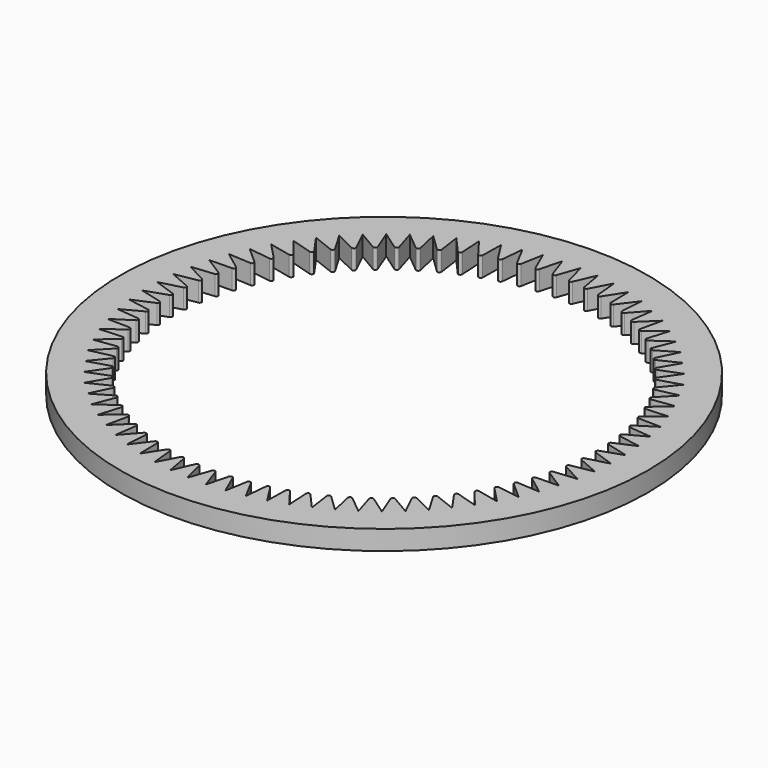
from build123d import *

# Parameters (mm, degrees)
F0_R     = 67.5
F1_DEPTH = 5


with BuildPart() as f1:
    # F0 (on Top) → F1 (new body)
    with BuildSketch(Plane.XY):
        Circle(F0_R)
        with BuildLine():
            ThreePointArc((-2.3561778909, 59.9537190318), (-2.3555889455, 59.9537421744), (-2.355, 59.9537653113))
            ThreePointArc((-2.355, 59.9537653113), (0, 60), (2.355, 59.9537653113))
            ThreePointArc((2.355, 59.9537653113), (2.3555889455, 59.9537421744), (2.3561778909, 59.9537190318))
            ThreePointArc((2.3561778909, 59.9537190318), (4.7075457437, 59.815040024), (7.0516585327, 59.5841766909))
            ThreePointArc((7.0516585327, 59.5841766909), (7.0522438475, 59.5841074173), (7.0528291615, 59.5840381379))
            ThreePointArc((7.0528291615, 59.5840381379), (9.3860679024, 59.2613004357), (11.7048412457, 58.8472318076))
            ThreePointArc((11.7048412457, 58.8472318076), (11.705419321, 58.8471168242), (11.7059973951, 58.8470018352))
            ThreePointArc((11.7059973951, 58.8470018352), (14.0067218314, 58.3421952239), (16.2858597202, 57.7474741714))
            ThreePointArc((16.2858597202, 57.7474741714), (16.2864269919, 57.7473141872), (16.2869942621, 57.7471541975))
            ThreePointArc((16.2869942621, 57.7471541975), (18.5410196625, 57.0633909777), (20.7664704538, 56.291684154))
            ThreePointArc((20.7664704538, 56.291684154), (20.7670234246, 56.2914801553), (20.7675763935, 56.2912761513))
            ThreePointArc((20.7675763935, 56.2912761513), (22.9610059419, 55.4327719507), (25.1190489916, 54.4888371849))
            ThreePointArc((25.1190489916, 54.4888371849), (25.1195842522, 54.4885904295), (25.1201195105, 54.4883436689))
            ThreePointArc((25.1201195105, 54.4883436689), (27.2394299844, 53.4603914513), (29.3167602394, 52.3500484151))
            ThreePointArc((29.3167602394, 52.3500484151), (29.3172744898, 52.3497604244), (29.3177887374, 52.3494724286))
            ThreePointArc((29.3177887374, 52.3494724286), (31.349913883, 51.1584098612), (33.3337239115, 49.8885041888))
            ThreePointArc((33.3337239115, 49.8885041888), (33.3342139812, 49.8881767382), (33.3347040476, 49.8878492827))
            ThreePointArc((33.3347040476, 49.8878492827), (35.2671151375, 48.5410196625), (37.1451740911, 47.1193807444))
            ThreePointArc((37.1451740911, 47.1193807444), (37.1456369586, 47.1190158528), (37.1460998225, 47.1186509567))
            ThreePointArc((37.1460998225, 47.1186509567), (38.9668828998, 45.624357936), (40.7276119204, 44.0597506491))
            ThreePointArc((40.7276119204, 44.0597506491), (40.728044732, 44.0593505661), (40.7284775396, 44.058950479))
            ThreePointArc((40.7284775396, 44.058950479), (42.4264068712, 42.4264068712), (44.058950479, 40.7284775396))
            ThreePointArc((44.058950479, 40.7284775396), (44.0593505661, 40.728044732), (44.0597506491, 40.7276119204))
            ThreePointArc((44.0597506491, 40.7276119204), (45.624357936, 38.9668828998), (47.1186509567, 37.1460998225))
            ThreePointArc((47.1186509567, 37.1460998225), (47.1190158528, 37.1456369586), (47.1193807444, 37.1451740911))
            ThreePointArc((47.1193807444, 37.1451740911), (48.5410196625, 35.2671151375), (49.8878492827, 33.3347040476))
            ThreePointArc((49.8878492827, 33.3347040476), (49.8881767382, 33.3342139812), (49.8885041888, 33.3337239115))
            ThreePointArc((49.8885041888, 33.3337239115), (51.1584098612, 31.349913883), (52.3494724286, 29.3177887374))
            ThreePointArc((52.3494724286, 29.3177887374), (52.3497604244, 29.3172744898), (52.3500484151, 29.3167602394))
            ThreePointArc((52.3500484151, 29.3167602394), (53.4603914513, 27.2394299844), (54.4883436689, 25.1201195105))
            ThreePointArc((54.4883436689, 25.1201195105), (54.4885904295, 25.1195842522), (54.4888371849, 25.1190489916))
            ThreePointArc((54.4888371849, 25.1190489916), (55.4327719507, 22.9610059419), (56.2912761513, 20.7675763935))
            ThreePointArc((56.2912761513, 20.7675763935), (56.2914801553, 20.7670234246), (56.291684154, 20.7664704538))
            ThreePointArc((56.291684154, 20.7664704538), (57.0633909777, 18.5410196625), (57.7471541975, 16.2869942621))
            ThreePointArc((57.7471541975, 16.2869942621), (57.7473141872, 16.2864269919), (57.7474741714, 16.2858597202))
            ThreePointArc((57.7474741714, 16.2858597202), (58.3421952239, 14.0067218314), (58.8470018352, 11.7059973951))
            ThreePointArc((58.8470018352, 11.7059973951), (58.8471168242, 11.705419321), (58.8472318076, 11.7048412457))
            ThreePointArc((58.8472318076, 11.7048412457), (59.2613004357, 9.3860679024), (59.5840381379, 7.0528291615))
            ThreePointArc((59.5840381379, 7.0528291615), (59.5841074173, 7.0522438475), (59.5841766909, 7.0516585327))
            ThreePointArc((59.5841766909, 7.0516585327), (59.815040024, 4.7075457437), (59.9537190318, 2.3561778909))
            ThreePointArc((59.9537190318, 2.3561778909), (59.9537421744, 2.3555889455), (59.9537653113, 2.355))
            ThreePointArc((59.9537653113, 2.355), (59.9884402142, 1.1777269045), (60, 0))
            ThreePointArc((60, 0), (59.9884402142, -1.1777269045), (59.9537653113, -2.355))
            ThreePointArc((59.9537653113, -2.355), (59.9537421744, -2.3555889455), (59.9537190318, -2.3561778909))
            ThreePointArc((59.9537190318, -2.3561778909), (59.815040024, -4.7075457437), (59.5841766909, -7.0516585327))
            ThreePointArc((59.5841766909, -7.0516585327), (59.5841074173, -7.0522438475), (59.5840381379, -7.0528291615))
            ThreePointArc((59.5840381379, -7.0528291615), (59.2613004357, -9.3860679024), (58.8472318076, -11.7048412457))
            ThreePointArc((58.8472318076, -11.7048412457), (58.8471168242, -11.705419321), (58.8470018352, -11.7059973951))
            ThreePointArc((58.8470018352, -11.7059973951), (58.3421952239, -14.0067218314), (57.7474741714, -16.2858597202))
            ThreePointArc((57.7474741714, -16.2858597202), (57.7473141872, -16.2864269919), (57.7471541975, -16.2869942621))
            ThreePointArc((57.7471541975, -16.2869942621), (57.0633909777, -18.5410196625), (56.291684154, -20.7664704538))
            ThreePointArc((56.291684154, -20.7664704538), (56.2914801553, -20.7670234246), (56.2912761513, -20.7675763935))
            ThreePointArc((56.2912761513, -20.7675763935), (55.4327719507, -22.9610059419), (54.4888371849, -25.1190489916))
            ThreePointArc((54.4888371849, -25.1190489916), (54.4885904295, -25.1195842522), (54.4883436689, -25.1201195105))
            ThreePointArc((54.4883436689, -25.1201195105), (53.4603914513, -27.2394299844), (52.3500484151, -29.3167602394))
            ThreePointArc((52.3500484151, -29.3167602394), (52.3497604244, -29.3172744898), (52.3494724286, -29.3177887374))
            ThreePointArc((52.3494724286, -29.3177887374), (51.1584098612, -31.349913883), (49.8885041888, -33.3337239115))
            ThreePointArc((49.8885041888, -33.3337239115), (49.8881767382, -33.3342139812), (49.8878492827, -33.3347040476))
            ThreePointArc((49.8878492827, -33.3347040476), (48.5410196625, -35.2671151375), (47.1193807444, -37.1451740911))
            ThreePointArc((47.1193807444, -37.1451740911), (47.1190158528, -37.1456369586), (47.1186509567, -37.1460998225))
            ThreePointArc((47.1186509567, -37.1460998225), (45.624357936, -38.9668828998), (44.0597506491, -40.7276119204))
            ThreePointArc((44.0597506491, -40.7276119204), (44.0593505661, -40.728044732), (44.058950479, -40.7284775396))
            ThreePointArc((44.058950479, -40.7284775396), (42.4264068712, -42.4264068712), (40.7284775396, -44.058950479))
            ThreePointArc((40.7284775396, -44.058950479), (40.728044732, -44.0593505661), (40.7276119204, -44.0597506491))
            ThreePointArc((40.7276119204, -44.0597506491), (38.9668828998, -45.624357936), (37.1460998225, -47.1186509567))
            ThreePointArc((37.1460998225, -47.1186509567), (37.1456369586, -47.1190158528), (37.1451740911, -47.1193807444))
            ThreePointArc((37.1451740911, -47.1193807444), (35.2671151375, -48.5410196625), (33.3347040476, -49.8878492827))
            ThreePointArc((33.3347040476, -49.8878492827), (33.3342139812, -49.8881767382), (33.3337239115, -49.8885041888))
            ThreePointArc((33.3337239115, -49.8885041888), (31.349913883, -51.1584098612), (29.3177887374, -52.3494724286))
            ThreePointArc((29.3177887374, -52.3494724286), (29.3172744898, -52.3497604244), (29.3167602394, -52.3500484151))
            ThreePointArc((29.3167602394, -52.3500484151), (27.2394299844, -53.4603914513), (25.1201195105, -54.4883436689))
            ThreePointArc((25.1201195105, -54.4883436689), (25.1195842522, -54.4885904295), (25.1190489916, -54.4888371849))
            ThreePointArc((25.1190489916, -54.4888371849), (22.9610059419, -55.4327719507), (20.7675763935, -56.2912761513))
            ThreePointArc((20.7675763935, -56.2912761513), (20.7670234246, -56.2914801553), (20.7664704538, -56.291684154))
            ThreePointArc((20.7664704538, -56.291684154), (18.5410196625, -57.0633909777), (16.2869942621, -57.7471541975))
            ThreePointArc((16.2869942621, -57.7471541975), (16.2864269919, -57.7473141872), (16.2858597202, -57.7474741714))
            ThreePointArc((16.2858597202, -57.7474741714), (14.0067218314, -58.3421952239), (11.7059973951, -58.8470018352))
            ThreePointArc((11.7059973951, -58.8470018352), (11.705419321, -58.8471168242), (11.7048412457, -58.8472318076))
            ThreePointArc((11.7048412457, -58.8472318076), (9.3860679024, -59.2613004357), (7.0528291615, -59.5840381379))
            ThreePointArc((7.0528291615, -59.5840381379), (7.0522438475, -59.5841074173), (7.0516585327, -59.5841766909))
            ThreePointArc((7.0516585327, -59.5841766909), (4.7075457437, -59.815040024), (2.3561778909, -59.9537190318))
            ThreePointArc((2.3561778909, -59.9537190318), (2.3555889455, -59.9537421744), (2.355, -59.9537653113))
            ThreePointArc((2.355, -59.9537653113), (0, -60), (-2.355, -59.9537653113))
            ThreePointArc((-2.355, -59.9537653113), (-2.3555889455, -59.9537421744), (-2.3561778909, -59.9537190318))
            ThreePointArc((-2.3561778909, -59.9537190318), (-4.7075457437, -59.815040024), (-7.0516585327, -59.5841766909))
            ThreePointArc((-7.0516585327, -59.5841766909), (-7.0522438475, -59.5841074173), (-7.0528291615, -59.5840381379))
            ThreePointArc((-7.0528291615, -59.5840381379), (-9.3860679024, -59.2613004357), (-11.7048412457, -58.8472318076))
            ThreePointArc((-11.7048412457, -58.8472318076), (-11.705419321, -58.8471168242), (-11.7059973951, -58.8470018352))
            ThreePointArc((-11.7059973951, -58.8470018352), (-14.0067218314, -58.3421952239), (-16.2858597202, -57.7474741714))
            ThreePointArc((-16.2858597202, -57.7474741714), (-16.2864269919, -57.7473141872), (-16.2869942621, -57.7471541975))
            ThreePointArc((-16.2869942621, -57.7471541975), (-18.5410196625, -57.0633909777), (-20.7664704538, -56.291684154))
            ThreePointArc((-20.7664704538, -56.291684154), (-20.7670234246, -56.2914801553), (-20.7675763935, -56.2912761513))
            ThreePointArc((-20.7675763935, -56.2912761513), (-22.9610059419, -55.4327719507), (-25.1190489916, -54.4888371849))
            ThreePointArc((-25.1190489916, -54.4888371849), (-25.1195842522, -54.4885904295), (-25.1201195105, -54.4883436689))
            ThreePointArc((-25.1201195105, -54.4883436689), (-27.2394299844, -53.4603914513), (-29.3167602394, -52.3500484151))
            ThreePointArc((-29.3167602394, -52.3500484151), (-29.3172744898, -52.3497604244), (-29.3177887374, -52.3494724286))
            ThreePointArc((-29.3177887374, -52.3494724286), (-31.349913883, -51.1584098612), (-33.3337239115, -49.8885041888))
            ThreePointArc((-33.3337239115, -49.8885041888), (-33.3342139812, -49.8881767382), (-33.3347040476, -49.8878492827))
            ThreePointArc((-33.3347040476, -49.8878492827), (-35.2671151375, -48.5410196625), (-37.1451740911, -47.1193807444))
            ThreePointArc((-37.1451740911, -47.1193807444), (-37.1456369586, -47.1190158528), (-37.1460998225, -47.1186509567))
            ThreePointArc((-37.1460998225, -47.1186509567), (-38.9668828998, -45.624357936), (-40.7276119204, -44.0597506491))
            ThreePointArc((-40.7276119204, -44.0597506491), (-40.728044732, -44.0593505661), (-40.7284775396, -44.058950479))
            ThreePointArc((-40.7284775396, -44.058950479), (-42.4264068712, -42.4264068712), (-44.058950479, -40.7284775396))
            ThreePointArc((-44.058950479, -40.7284775396), (-44.0593505661, -40.728044732), (-44.0597506491, -40.7276119204))
            ThreePointArc((-44.0597506491, -40.7276119204), (-45.624357936, -38.9668828998), (-47.1186509567, -37.1460998225))
            ThreePointArc((-47.1186509567, -37.1460998225), (-47.1190158528, -37.1456369586), (-47.1193807444, -37.1451740911))
            ThreePointArc((-47.1193807444, -37.1451740911), (-48.5410196625, -35.2671151375), (-49.8878492827, -33.3347040476))
            ThreePointArc((-49.8878492827, -33.3347040476), (-49.8881767382, -33.3342139812), (-49.8885041888, -33.3337239115))
            ThreePointArc((-49.8885041888, -33.3337239115), (-51.1584098612, -31.349913883), (-52.3494724286, -29.3177887374))
            ThreePointArc((-52.3494724286, -29.3177887374), (-52.3497604244, -29.3172744898), (-52.3500484151, -29.3167602394))
            ThreePointArc((-52.3500484151, -29.3167602394), (-53.4603914513, -27.2394299844), (-54.4883436689, -25.1201195105))
            ThreePointArc((-54.4883436689, -25.1201195105), (-54.4885904295, -25.1195842522), (-54.4888371849, -25.1190489916))
            ThreePointArc((-54.4888371849, -25.1190489916), (-55.4327719507, -22.9610059419), (-56.2912761513, -20.7675763935))
            ThreePointArc((-56.2912761513, -20.7675763935), (-56.2914801553, -20.7670234246), (-56.291684154, -20.7664704538))
            ThreePointArc((-56.291684154, -20.7664704538), (-57.0633909777, -18.5410196625), (-57.7471541975, -16.2869942621))
            ThreePointArc((-57.7471541975, -16.2869942621), (-57.7473141872, -16.2864269919), (-57.7474741714, -16.2858597202))
            ThreePointArc((-57.7474741714, -16.2858597202), (-58.3421952239, -14.0067218314), (-58.8470018352, -11.7059973951))
            ThreePointArc((-58.8470018352, -11.7059973951), (-58.8471168242, -11.705419321), (-58.8472318076, -11.7048412457))
            ThreePointArc((-58.8472318076, -11.7048412457), (-59.2613004357, -9.3860679024), (-59.5840381379, -7.0528291615))
            ThreePointArc((-59.5840381379, -7.0528291615), (-59.5841074173, -7.0522438475), (-59.5841766909, -7.0516585327))
            ThreePointArc((-59.5841766909, -7.0516585327), (-59.815040024, -4.7075457437), (-59.9537190318, -2.3561778909))
            ThreePointArc((-59.9537190318, -2.3561778909), (-59.9537421744, -2.3555889455), (-59.9537653113, -2.355))
            ThreePointArc((-59.9537653113, -2.355), (-60, 0), (-59.9537653113, 2.355))
            ThreePointArc((-59.9537653113, 2.355), (-59.9537421744, 2.3555889455), (-59.9537190318, 2.3561778909))
            ThreePointArc((-59.9537190318, 2.3561778909), (-59.815040024, 4.7075457437), (-59.5841766909, 7.0516585327))
            ThreePointArc((-59.5841766909, 7.0516585327), (-59.5841074173, 7.0522438475), (-59.5840381379, 7.0528291615))
            ThreePointArc((-59.5840381379, 7.0528291615), (-59.2613004357, 9.3860679024), (-58.8472318076, 11.7048412457))
            ThreePointArc((-58.8472318076, 11.7048412457), (-58.8471168242, 11.705419321), (-58.8470018352, 11.7059973951))
            ThreePointArc((-58.8470018352, 11.7059973951), (-58.3421952239, 14.0067218314), (-57.7474741714, 16.2858597202))
            ThreePointArc((-57.7474741714, 16.2858597202), (-57.7473141872, 16.2864269919), (-57.7471541975, 16.2869942621))
            ThreePointArc((-57.7471541975, 16.2869942621), (-57.0633909777, 18.5410196625), (-56.291684154, 20.7664704538))
            ThreePointArc((-56.291684154, 20.7664704538), (-56.2914801553, 20.7670234246), (-56.2912761513, 20.7675763935))
            ThreePointArc((-56.2912761513, 20.7675763935), (-55.4327719507, 22.9610059419), (-54.4888371849, 25.1190489916))
            ThreePointArc((-54.4888371849, 25.1190489916), (-54.4885904295, 25.1195842522), (-54.4883436689, 25.1201195105))
            ThreePointArc((-54.4883436689, 25.1201195105), (-53.4603914513, 27.2394299844), (-52.3500484151, 29.3167602394))
            ThreePointArc((-52.3500484151, 29.3167602394), (-52.3497604244, 29.3172744898), (-52.3494724286, 29.3177887374))
            ThreePointArc((-52.3494724286, 29.3177887374), (-51.1584098612, 31.349913883), (-49.8885041888, 33.3337239115))
            ThreePointArc((-49.8885041888, 33.3337239115), (-49.8881767382, 33.3342139812), (-49.8878492827, 33.3347040476))
            ThreePointArc((-49.8878492827, 33.3347040476), (-48.5410196625, 35.2671151375), (-47.1193807444, 37.1451740911))
            ThreePointArc((-47.1193807444, 37.1451740911), (-47.1190158528, 37.1456369586), (-47.1186509567, 37.1460998225))
            ThreePointArc((-47.1186509567, 37.1460998225), (-45.624357936, 38.9668828998), (-44.0597506491, 40.7276119204))
            ThreePointArc((-44.0597506491, 40.7276119204), (-44.0593505661, 40.728044732), (-44.058950479, 40.7284775396))
            ThreePointArc((-44.058950479, 40.7284775396), (-42.4264068712, 42.4264068712), (-40.7284775396, 44.058950479))
            ThreePointArc((-40.7284775396, 44.058950479), (-40.728044732, 44.0593505661), (-40.7276119204, 44.0597506491))
            ThreePointArc((-40.7276119204, 44.0597506491), (-38.9668828998, 45.624357936), (-37.1460998225, 47.1186509567))
            ThreePointArc((-37.1460998225, 47.1186509567), (-37.1456369586, 47.1190158528), (-37.1451740911, 47.1193807444))
            ThreePointArc((-37.1451740911, 47.1193807444), (-35.2671151375, 48.5410196625), (-33.3347040476, 49.8878492827))
            ThreePointArc((-33.3347040476, 49.8878492827), (-33.3342139812, 49.8881767382), (-33.3337239115, 49.8885041888))
            ThreePointArc((-33.3337239115, 49.8885041888), (-31.349913883, 51.1584098612), (-29.3177887374, 52.3494724286))
            ThreePointArc((-29.3177887374, 52.3494724286), (-29.3172744898, 52.3497604244), (-29.3167602394, 52.3500484151))
            ThreePointArc((-29.3167602394, 52.3500484151), (-27.2394299844, 53.4603914513), (-25.1201195105, 54.4883436689))
            ThreePointArc((-25.1201195105, 54.4883436689), (-25.1195842522, 54.4885904295), (-25.1190489916, 54.4888371849))
            ThreePointArc((-25.1190489916, 54.4888371849), (-22.9610059419, 55.4327719507), (-20.7675763935, 56.2912761513))
            ThreePointArc((-20.7675763935, 56.2912761513), (-20.7670234246, 56.2914801553), (-20.7664704538, 56.291684154))
            ThreePointArc((-20.7664704538, 56.291684154), (-18.5410196625, 57.0633909777), (-16.2869942621, 57.7471541975))
            ThreePointArc((-16.2869942621, 57.7471541975), (-16.2864269919, 57.7473141872), (-16.2858597202, 57.7474741714))
            ThreePointArc((-16.2858597202, 57.7474741714), (-14.0067218314, 58.3421952239), (-11.7059973951, 58.8470018352))
            ThreePointArc((-11.7059973951, 58.8470018352), (-11.705419321, 58.8471168242), (-11.7048412457, 58.8472318076))
            ThreePointArc((-11.7048412457, 58.8472318076), (-9.3860679024, 59.2613004357), (-7.0528291615, 59.5840381379))
            ThreePointArc((-7.0528291615, 59.5840381379), (-7.0522438475, 59.5841074173), (-7.0516585327, 59.5841766909))
            ThreePointArc((-7.0516585327, 59.5841766909), (-4.7075457437, 59.815040024), (-2.3561778909, 59.9537190318))
        make_face(mode=Mode.SUBTRACT)
        with BuildLine():
            ThreePointArc((2.355, 59.9537653113), (0, 60), (-2.355, 59.9537653113))
            Line((-2.355, 59.9537653113), (-0.4725760277, 54.5067051611))
            ThreePointArc((-0.4725760277, 54.5067051611), (0, 54.1700204943), (0.4725760277, 54.5067051611))
            Line((0.4725760277, 54.5067051611), (2.355, 59.9537653113))
        make_face()
        with BuildLine():
            ThreePointArc((7.0516585327, 59.5841766909), (4.7075457437, 59.815040024), (2.3561778909, 59.9537190318))
            Line((2.3561778909, 59.9537190318), (3.8054275645, 54.3757570676))
            ThreePointArc((3.8054275645, 54.3757570676), (4.2501308235, 54.0030323994), (4.7476660316, 54.301601292))
            Line((4.7476660316, 54.301601292), (7.0516585327, 59.5841766909))
        make_face()
        with BuildLine():
            ThreePointArc((11.7048412457, 58.8472318076), (9.3860679024, 59.2613004357), (7.0528291615, 59.5840381379))
            Line((7.0528291615, 59.5840381379), (8.0599694304, 53.90956435))
            ThreePointArc((8.0599694304, 53.90956435), (8.4740581772, 53.503097652), (8.9934850956, 53.7617099938))
            Line((8.9934850956, 53.7617099938), (11.7048412457, 58.8472318076))
        make_face()
        with BuildLine():
            ThreePointArc((16.2858597202, 57.7474741714), (14.0067218314, 58.3421952239), (11.7059973951, 58.8470018352))
            Line((11.7059973951, 58.8470018352), (12.2648189045, 53.1110012414))
            ThreePointArc((12.2648189045, 53.1110012414), (12.6457401444, 52.673298516), (13.1838563334, 52.8903598759))
            Line((13.1838563334, 52.8903598759), (16.2858597202, 57.7474741714))
        make_face()
        with BuildLine():
            ThreePointArc((20.7664704538, 56.291684154), (18.5410196625, 57.0633909777), (16.2869942621, 57.7471541975))
            Line((16.2869942621, 57.7471541975), (16.3940516916, 51.984991149))
            ThreePointArc((16.3940516916, 51.984991149), (16.7394569184, 51.5187509789), (17.2929447128, 51.6929231016))
            Line((17.2929447128, 51.6929231016), (20.7664704538, 56.291684154))
        make_face()
        with BuildLine():
            ThreePointArc((25.1190489916, 54.4888371849), (22.9610059419, 55.4327719507), (20.7675763935, 56.2912761513))
            Line((20.7675763935, 56.2912761513), (20.4222096984, 50.5384762993))
            ThreePointArc((20.4222096984, 50.5384762993), (20.729969374, 50.0465732104), (21.2954163375, 50.1767822667))
            Line((21.2954163375, 50.1767822667), (25.1190489916, 54.4888371849))
        make_face()
        with BuildLine():
            ThreePointArc((29.3167602394, 52.3500484151), (27.2394299844, 53.4603914513), (25.1201195105, 54.4883436689))
            Line((25.1201195105, 54.4883436689), (24.3244579914, 48.7803749375))
            ThreePointArc((24.3244579914, 48.7803749375), (24.5926746751, 48.2658416758), (25.1665946391, 48.3512848836))
            Line((25.1665946391, 48.3512848836), (29.3167602394, 52.3500484151))
        make_face()
        with BuildLine():
            ThreePointArc((33.3337239115, 49.8885041888), (31.349913883, 51.1584098612), (29.3177887374, 52.3494724286))
            Line((29.3177887374, 52.3494724286), (28.0767379122, 46.7215263432))
            ThreePointArc((28.0767379122, 46.7215263432), (28.3037579589, 46.1875351773), (28.882612516, 46.2276857508))
            Line((28.882612516, 46.2276857508), (33.3337239115, 49.8885041888))
        make_face()
        with BuildLine():
            ThreePointArc((37.1451740911, 47.1193807444), (35.2671151375, 48.5410196625), (33.3347040476, 49.8878492827))
            Line((33.3347040476, 49.8878492827), (31.6559154072, 44.3746240024))
            ThreePointArc((31.6559154072, 44.3746240024), (31.8403391629, 43.8244671655), (32.4205594823, 43.8190775631))
            Line((32.4205594823, 43.8190775631), (37.1451740911, 47.1193807444))
        make_face()
        with BuildLine():
            ThreePointArc((40.7276119204, 44.0597506491), (38.9668828998, 45.624357936), (37.1460998225, 47.1186509567))
            Line((37.1460998225, 47.1186509567), (35.0399236571, 41.7541373486))
            ThreePointArc((35.0399236571, 41.7541373486), (35.180614088, 41.1912067405), (35.7586229185, 41.1403101908))
            Line((35.7586229185, 41.1403101908), (40.7276119204, 44.0597506491))
        make_face()
        with BuildLine():
            ThreePointArc((44.058950479, 40.7284775396), (42.4264068712, 42.4264068712), (40.7284775396, 44.058950479))
            Line((40.7284775396, 44.058950479), (38.2078991258, 38.8762225534))
            ThreePointArc((38.2078991258, 38.8762225534), (38.3039888285, 38.3039888285), (38.8762225534, 38.2078991258))
            Line((38.8762225534, 38.2078991258), (44.058950479, 40.7284775396))
        make_face()
        with BuildLine():
            ThreePointArc((47.1186509567, 37.1460998225), (45.624357936, 38.9668828998), (44.0597506491, 40.7276119204))
            Line((44.0597506491, 40.7276119204), (41.1403101908, 35.7586229185))
            ThreePointArc((41.1403101908, 35.7586229185), (41.1912067405, 35.180614088), (41.7541373486, 35.0399236571))
            Line((41.7541373486, 35.0399236571), (47.1186509567, 37.1460998225))
        make_face()
        with BuildLine():
            ThreePointArc((49.8878492827, 33.3347040476), (48.5410196625, 35.2671151375), (47.1193807444, 37.1451740911))
            Line((47.1193807444, 37.1451740911), (43.8190775631, 32.4205594823))
            ThreePointArc((43.8190775631, 32.4205594823), (43.8244671655, 31.8403391629), (44.3746240024, 31.6559154072))
            Line((44.3746240024, 31.6559154072), (49.8878492827, 33.3347040476))
        make_face()
        with BuildLine():
            ThreePointArc((52.3494724286, 29.3177887374), (51.1584098612, 31.349913883), (49.8885041888, 33.3337239115))
            Line((49.8885041888, 33.3337239115), (46.2276857508, 28.882612516))
            ThreePointArc((46.2276857508, 28.882612516), (46.1875351773, 28.3037579589), (46.7215263432, 28.0767379122))
            Line((46.7215263432, 28.0767379122), (52.3494724286, 29.3177887374))
        make_face()
        with BuildLine():
            ThreePointArc((56.2912761513, 20.7675763935), (55.4327719507, 22.9610059419), (54.4888371849, 25.1190489916))
            Line((54.4888371849, 25.1190489916), (50.1767822667, 21.2954163375))
            ThreePointArc((50.1767822667, 21.2954163375), (50.0465732104, 20.729969374), (50.5384762993, 20.4222096984))
            Line((50.5384762993, 20.4222096984), (56.2912761513, 20.7675763935))
        make_face()
        with BuildLine():
            ThreePointArc((57.7471541975, 16.2869942621), (57.0633909777, 18.5410196625), (56.291684154, 20.7664704538))
            Line((56.291684154, 20.7664704538), (51.6929231016, 17.2929447128))
            ThreePointArc((51.6929231016, 17.2929447128), (51.5187509789, 16.7394569184), (51.984991149, 16.3940516916))
            Line((51.984991149, 16.3940516916), (57.7471541975, 16.2869942621))
        make_face()
        with BuildLine():
            ThreePointArc((58.8470018352, 11.7059973951), (58.3421952239, 14.0067218314), (57.7474741714, 16.2858597202))
            Line((57.7474741714, 16.2858597202), (52.8903598759, 13.1838563334))
            ThreePointArc((52.8903598759, 13.1838563334), (52.673298516, 12.6457401444), (53.1110012414, 12.2648189045))
            Line((53.1110012414, 12.2648189045), (58.8470018352, 11.7059973951))
        make_face()
        with BuildLine():
            ThreePointArc((59.5840381379, 7.0528291615), (59.2613004357, 9.3860679024), (58.8472318076, 11.7048412457))
            Line((58.8472318076, 11.7048412457), (53.7617099938, 8.9934850956))
            ThreePointArc((53.7617099938, 8.9934850956), (53.503097652, 8.4740581772), (53.90956435, 8.0599694304))
            Line((53.90956435, 8.0599694304), (59.5840381379, 7.0528291615))
        make_face()
        with BuildLine():
            ThreePointArc((59.9537190318, 2.3561778909), (59.815040024, 4.7075457437), (59.5841766909, 7.0516585327))
            Line((59.5841766909, 7.0516585327), (54.301601292, 4.7476660316))
            ThreePointArc((54.301601292, 4.7476660316), (54.0030323994, 4.2501308235), (54.3757570676, 3.8054275645))
            Line((54.3757570676, 3.8054275645), (59.9537190318, 2.3561778909))
        make_face()
        with BuildLine():
            ThreePointArc((60, 0), (59.9884402142, 1.1777269045), (59.9537653113, 2.355))
            Line((59.9537653113, 2.355), (54.5067051611, 0.4725760277))
            ThreePointArc((54.5067051611, 0.4725760277), (54.1700204943, 0), (54.5067051611, -0.4725760277))
            Line((54.5067051611, -0.4725760277), (59.9537653113, -2.355))
            ThreePointArc((59.9537653113, -2.355), (59.9884402142, -1.1777269045), (60, 0))
        make_face()
        with BuildLine():
            ThreePointArc((59.5841766909, -7.0516585327), (59.815040024, -4.7075457437), (59.9537190318, -2.3561778909))
            Line((59.9537190318, -2.3561778909), (54.3757570676, -3.8054275645))
            ThreePointArc((54.3757570676, -3.8054275645), (54.0030323994, -4.2501308235), (54.301601292, -4.7476660316))
            Line((54.301601292, -4.7476660316), (59.5841766909, -7.0516585327))
        make_face()
        with BuildLine():
            ThreePointArc((58.8472318076, -11.7048412457), (59.2613004357, -9.3860679024), (59.5840381379, -7.0528291615))
            Line((59.5840381379, -7.0528291615), (53.90956435, -8.0599694304))
            ThreePointArc((53.90956435, -8.0599694304), (53.503097652, -8.4740581772), (53.7617099938, -8.9934850956))
            Line((53.7617099938, -8.9934850956), (58.8472318076, -11.7048412457))
        make_face()
        with BuildLine():
            ThreePointArc((57.7474741714, -16.2858597202), (58.3421952239, -14.0067218314), (58.8470018352, -11.7059973951))
            Line((58.8470018352, -11.7059973951), (53.1110012414, -12.2648189045))
            ThreePointArc((53.1110012414, -12.2648189045), (52.673298516, -12.6457401444), (52.8903598759, -13.1838563334))
            Line((52.8903598759, -13.1838563334), (57.7474741714, -16.2858597202))
        make_face()
        with BuildLine():
            ThreePointArc((56.291684154, -20.7664704538), (57.0633909777, -18.5410196625), (57.7471541975, -16.2869942621))
            Line((57.7471541975, -16.2869942621), (51.984991149, -16.3940516916))
            ThreePointArc((51.984991149, -16.3940516916), (51.5187509789, -16.7394569184), (51.6929231016, -17.2929447128))
            Line((51.6929231016, -17.2929447128), (56.291684154, -20.7664704538))
        make_face()
        with BuildLine():
            ThreePointArc((54.4888371849, -25.1190489916), (55.4327719507, -22.9610059419), (56.2912761513, -20.7675763935))
            Line((56.2912761513, -20.7675763935), (50.5384762993, -20.4222096984))
            ThreePointArc((50.5384762993, -20.4222096984), (50.0465732104, -20.729969374), (50.1767822667, -21.2954163375))
            Line((50.1767822667, -21.2954163375), (54.4888371849, -25.1190489916))
        make_face()
        with BuildLine():
            ThreePointArc((52.3500484151, -29.3167602394), (53.4603914513, -27.2394299844), (54.4883436689, -25.1201195105))
            Line((54.4883436689, -25.1201195105), (48.7803749375, -24.3244579914))
            ThreePointArc((48.7803749375, -24.3244579914), (48.2658416758, -24.5926746751), (48.3512848836, -25.1665946391))
            Line((48.3512848836, -25.1665946391), (52.3500484151, -29.3167602394))
        make_face()
        with BuildLine():
            ThreePointArc((49.8885041888, -33.3337239115), (51.1584098612, -31.349913883), (52.3494724286, -29.3177887374))
            Line((52.3494724286, -29.3177887374), (46.7215263432, -28.0767379122))
            ThreePointArc((46.7215263432, -28.0767379122), (46.1875351773, -28.3037579589), (46.2276857508, -28.882612516))
            Line((46.2276857508, -28.882612516), (49.8885041888, -33.3337239115))
        make_face()
        with BuildLine():
            ThreePointArc((47.1193807444, -37.1451740911), (48.5410196625, -35.2671151375), (49.8878492827, -33.3347040476))
            Line((49.8878492827, -33.3347040476), (44.3746240024, -31.6559154072))
            ThreePointArc((44.3746240024, -31.6559154072), (43.8244671655, -31.8403391629), (43.8190775631, -32.4205594823))
            Line((43.8190775631, -32.4205594823), (47.1193807444, -37.1451740911))
        make_face()
        with BuildLine():
            ThreePointArc((44.0597506491, -40.7276119204), (45.624357936, -38.9668828998), (47.1186509567, -37.1460998225))
            Line((47.1186509567, -37.1460998225), (41.7541373486, -35.0399236571))
            ThreePointArc((41.7541373486, -35.0399236571), (41.1912067405, -35.180614088), (41.1403101908, -35.7586229185))
            Line((41.1403101908, -35.7586229185), (44.0597506491, -40.7276119204))
        make_face()
        with BuildLine():
            ThreePointArc((40.7284775396, -44.058950479), (42.4264068712, -42.4264068712), (44.058950479, -40.7284775396))
            Line((44.058950479, -40.7284775396), (38.8762225534, -38.2078991258))
            ThreePointArc((38.8762225534, -38.2078991258), (38.3039888285, -38.3039888285), (38.2078991258, -38.8762225534))
            Line((38.2078991258, -38.8762225534), (40.7284775396, -44.058950479))
        make_face()
        with BuildLine():
            ThreePointArc((37.1460998225, -47.1186509567), (38.9668828998, -45.624357936), (40.7276119204, -44.0597506491))
            Line((40.7276119204, -44.0597506491), (35.7586229185, -41.1403101908))
            ThreePointArc((35.7586229185, -41.1403101908), (35.180614088, -41.1912067405), (35.0399236571, -41.7541373486))
            Line((35.0399236571, -41.7541373486), (37.1460998225, -47.1186509567))
        make_face()
        with BuildLine():
            ThreePointArc((33.3347040476, -49.8878492827), (35.2671151375, -48.5410196625), (37.1451740911, -47.1193807444))
            Line((37.1451740911, -47.1193807444), (32.4205594823, -43.8190775631))
            ThreePointArc((32.4205594823, -43.8190775631), (31.8403391629, -43.8244671655), (31.6559154072, -44.3746240024))
            Line((31.6559154072, -44.3746240024), (33.3347040476, -49.8878492827))
        make_face()
        with BuildLine():
            ThreePointArc((25.1201195105, -54.4883436689), (27.2394299844, -53.4603914513), (29.3167602394, -52.3500484151))
            Line((29.3167602394, -52.3500484151), (25.1665946391, -48.3512848836))
            ThreePointArc((25.1665946391, -48.3512848836), (24.5926746751, -48.2658416758), (24.3244579914, -48.7803749375))
            Line((24.3244579914, -48.7803749375), (25.1201195105, -54.4883436689))
        make_face()
        with BuildLine():
            ThreePointArc((20.7675763935, -56.2912761513), (22.9610059419, -55.4327719507), (25.1190489916, -54.4888371849))
            Line((25.1190489916, -54.4888371849), (21.2954163375, -50.1767822667))
            ThreePointArc((21.2954163375, -50.1767822667), (20.729969374, -50.0465732104), (20.4222096984, -50.5384762993))
            Line((20.4222096984, -50.5384762993), (20.7675763935, -56.2912761513))
        make_face()
        with BuildLine():
            ThreePointArc((29.3177887374, -52.3494724286), (31.349913883, -51.1584098612), (33.3337239115, -49.8885041888))
            Line((33.3337239115, -49.8885041888), (28.882612516, -46.2276857508))
            ThreePointArc((28.882612516, -46.2276857508), (28.3037579589, -46.1875351773), (28.0767379122, -46.7215263432))
            Line((28.0767379122, -46.7215263432), (29.3177887374, -52.3494724286))
        make_face()
        with BuildLine():
            ThreePointArc((16.2869942621, -57.7471541975), (18.5410196625, -57.0633909777), (20.7664704538, -56.291684154))
            Line((20.7664704538, -56.291684154), (17.2929447128, -51.6929231016))
            ThreePointArc((17.2929447128, -51.6929231016), (16.7394569184, -51.5187509789), (16.3940516916, -51.984991149))
            Line((16.3940516916, -51.984991149), (16.2869942621, -57.7471541975))
        make_face()
        with BuildLine():
            ThreePointArc((7.0528291615, -59.5840381379), (9.3860679024, -59.2613004357), (11.7048412457, -58.8472318076))
            Line((11.7048412457, -58.8472318076), (8.9934850956, -53.7617099938))
            ThreePointArc((8.9934850956, -53.7617099938), (8.4740581772, -53.503097652), (8.0599694304, -53.90956435))
            Line((8.0599694304, -53.90956435), (7.0528291615, -59.5840381379))
        make_face()
        with BuildLine():
            Line((-0.4725760277, -54.5067051611), (-2.355, -59.9537653113))
            ThreePointArc((-2.355, -59.9537653113), (0, -60), (2.355, -59.9537653113))
            Line((2.355, -59.9537653113), (0.4725760277, -54.5067051611))
            ThreePointArc((0.4725760277, -54.5067051611), (0, -54.1700204943), (-0.4725760277, -54.5067051611))
        make_face()
        with BuildLine():
            Line((-4.7476660316, -54.301601292), (-7.0516585327, -59.5841766909))
            ThreePointArc((-7.0516585327, -59.5841766909), (-4.7075457437, -59.815040024), (-2.3561778909, -59.9537190318))
            Line((-2.3561778909, -59.9537190318), (-3.8054275645, -54.3757570676))
            ThreePointArc((-3.8054275645, -54.3757570676), (-4.2501308235, -54.0030323994), (-4.7476660316, -54.301601292))
        make_face()
        with BuildLine():
            Line((-8.9934850956, -53.7617099938), (-11.7048412457, -58.8472318076))
            ThreePointArc((-11.7048412457, -58.8472318076), (-9.3860679024, -59.2613004357), (-7.0528291615, -59.5840381379))
            Line((-7.0528291615, -59.5840381379), (-8.0599694304, -53.90956435))
            ThreePointArc((-8.0599694304, -53.90956435), (-8.4740581772, -53.503097652), (-8.9934850956, -53.7617099938))
        make_face()
        with BuildLine():
            ThreePointArc((2.3561778909, -59.9537190318), (4.7075457437, -59.815040024), (7.0516585327, -59.5841766909))
            Line((7.0516585327, -59.5841766909), (4.7476660316, -54.301601292))
            ThreePointArc((4.7476660316, -54.301601292), (4.2501308235, -54.0030323994), (3.8054275645, -54.3757570676))
            Line((3.8054275645, -54.3757570676), (2.3561778909, -59.9537190318))
        make_face()
        with BuildLine():
            ThreePointArc((11.7059973951, -58.8470018352), (14.0067218314, -58.3421952239), (16.2858597202, -57.7474741714))
            Line((16.2858597202, -57.7474741714), (13.1838563334, -52.8903598759))
            ThreePointArc((13.1838563334, -52.8903598759), (12.6457401444, -52.673298516), (12.2648189045, -53.1110012414))
            Line((12.2648189045, -53.1110012414), (11.7059973951, -58.8470018352))
        make_face()
        with BuildLine():
            Line((-13.1838563334, -52.8903598759), (-16.2858597202, -57.7474741714))
            ThreePointArc((-16.2858597202, -57.7474741714), (-14.0067218314, -58.3421952239), (-11.7059973951, -58.8470018352))
            Line((-11.7059973951, -58.8470018352), (-12.2648189045, -53.1110012414))
            ThreePointArc((-12.2648189045, -53.1110012414), (-12.6457401444, -52.673298516), (-13.1838563334, -52.8903598759))
        make_face()
        with BuildLine():
            Line((-17.2929447128, -51.6929231016), (-20.7664704538, -56.291684154))
            ThreePointArc((-20.7664704538, -56.291684154), (-18.5410196625, -57.0633909777), (-16.2869942621, -57.7471541975))
            Line((-16.2869942621, -57.7471541975), (-16.3940516916, -51.984991149))
            ThreePointArc((-16.3940516916, -51.984991149), (-16.7394569184, -51.5187509789), (-17.2929447128, -51.6929231016))
        make_face()
        with BuildLine():
            Line((-21.2954163375, -50.1767822667), (-25.1190489916, -54.4888371849))
            ThreePointArc((-25.1190489916, -54.4888371849), (-22.9610059419, -55.4327719507), (-20.7675763935, -56.2912761513))
            Line((-20.7675763935, -56.2912761513), (-20.4222096984, -50.5384762993))
            ThreePointArc((-20.4222096984, -50.5384762993), (-20.729969374, -50.0465732104), (-21.2954163375, -50.1767822667))
        make_face()
        with BuildLine():
            Line((-25.1665946391, -48.3512848836), (-29.3167602394, -52.3500484151))
            ThreePointArc((-29.3167602394, -52.3500484151), (-27.2394299844, -53.4603914513), (-25.1201195105, -54.4883436689))
            Line((-25.1201195105, -54.4883436689), (-24.3244579914, -48.7803749375))
            ThreePointArc((-24.3244579914, -48.7803749375), (-24.5926746751, -48.2658416758), (-25.1665946391, -48.3512848836))
        make_face()
        with BuildLine():
            Line((-28.882612516, -46.2276857508), (-33.3337239115, -49.8885041888))
            ThreePointArc((-33.3337239115, -49.8885041888), (-31.349913883, -51.1584098612), (-29.3177887374, -52.3494724286))
            Line((-29.3177887374, -52.3494724286), (-28.0767379122, -46.7215263432))
            ThreePointArc((-28.0767379122, -46.7215263432), (-28.3037579589, -46.1875351773), (-28.882612516, -46.2276857508))
        make_face()
        with BuildLine():
            Line((-32.4205594823, -43.8190775631), (-37.1451740911, -47.1193807444))
            ThreePointArc((-37.1451740911, -47.1193807444), (-35.2671151375, -48.5410196625), (-33.3347040476, -49.8878492827))
            Line((-33.3347040476, -49.8878492827), (-31.6559154072, -44.3746240024))
            ThreePointArc((-31.6559154072, -44.3746240024), (-31.8403391629, -43.8244671655), (-32.4205594823, -43.8190775631))
        make_face()
        with BuildLine():
            Line((-35.7586229185, -41.1403101908), (-40.7276119204, -44.0597506491))
            ThreePointArc((-40.7276119204, -44.0597506491), (-38.9668828998, -45.624357936), (-37.1460998225, -47.1186509567))
            Line((-37.1460998225, -47.1186509567), (-35.0399236571, -41.7541373486))
            ThreePointArc((-35.0399236571, -41.7541373486), (-35.180614088, -41.1912067405), (-35.7586229185, -41.1403101908))
        make_face()
        with BuildLine():
            Line((-38.8762225534, -38.2078991258), (-44.058950479, -40.7284775396))
            ThreePointArc((-44.058950479, -40.7284775396), (-42.4264068712, -42.4264068712), (-40.7284775396, -44.058950479))
            Line((-40.7284775396, -44.058950479), (-38.2078991258, -38.8762225534))
            ThreePointArc((-38.2078991258, -38.8762225534), (-38.3039888285, -38.3039888285), (-38.8762225534, -38.2078991258))
        make_face()
        with BuildLine():
            Line((-41.7541373486, -35.0399236571), (-47.1186509567, -37.1460998225))
            ThreePointArc((-47.1186509567, -37.1460998225), (-45.624357936, -38.9668828998), (-44.0597506491, -40.7276119204))
            Line((-44.0597506491, -40.7276119204), (-41.1403101908, -35.7586229185))
            ThreePointArc((-41.1403101908, -35.7586229185), (-41.1912067405, -35.180614088), (-41.7541373486, -35.0399236571))
        make_face()
        with BuildLine():
            Line((-44.3746240024, -31.6559154072), (-49.8878492827, -33.3347040476))
            ThreePointArc((-49.8878492827, -33.3347040476), (-48.5410196625, -35.2671151375), (-47.1193807444, -37.1451740911))
            Line((-47.1193807444, -37.1451740911), (-43.8190775631, -32.4205594823))
            ThreePointArc((-43.8190775631, -32.4205594823), (-43.8244671655, -31.8403391629), (-44.3746240024, -31.6559154072))
        make_face()
        with BuildLine():
            Line((-44.3746240024, -31.6559154072), (-49.8878492827, -33.3347040476))
            ThreePointArc((-49.8878492827, -33.3347040476), (-48.5410196625, -35.2671151375), (-47.1193807444, -37.1451740911))
            Line((-47.1193807444, -37.1451740911), (-43.8190775631, -32.4205594823))
            ThreePointArc((-43.8190775631, -32.4205594823), (-43.8244671655, -31.8403391629), (-44.3746240024, -31.6559154072))
        make_face()
        with BuildLine():
            Line((-46.7215263432, -28.0767379122), (-52.3494724286, -29.3177887374))
            ThreePointArc((-52.3494724286, -29.3177887374), (-51.1584098612, -31.349913883), (-49.8885041888, -33.3337239115))
            Line((-49.8885041888, -33.3337239115), (-46.2276857508, -28.882612516))
            ThreePointArc((-46.2276857508, -28.882612516), (-46.1875351773, -28.3037579589), (-46.7215263432, -28.0767379122))
        make_face()
        with BuildLine():
            Line((-48.7803749375, -24.3244579914), (-54.4883436689, -25.1201195105))
            ThreePointArc((-54.4883436689, -25.1201195105), (-53.4603914513, -27.2394299844), (-52.3500484151, -29.3167602394))
            Line((-52.3500484151, -29.3167602394), (-48.3512848836, -25.1665946391))
            ThreePointArc((-48.3512848836, -25.1665946391), (-48.2658416758, -24.5926746751), (-48.7803749375, -24.3244579914))
        make_face()
        with BuildLine():
            Line((-50.5384762993, -20.4222096984), (-56.2912761513, -20.7675763935))
            ThreePointArc((-56.2912761513, -20.7675763935), (-55.4327719507, -22.9610059419), (-54.4888371849, -25.1190489916))
            Line((-54.4888371849, -25.1190489916), (-50.1767822667, -21.2954163375))
            ThreePointArc((-50.1767822667, -21.2954163375), (-50.0465732104, -20.729969374), (-50.5384762993, -20.4222096984))
        make_face()
        with BuildLine():
            Line((-51.984991149, -16.3940516916), (-57.7471541975, -16.2869942621))
            ThreePointArc((-57.7471541975, -16.2869942621), (-57.0633909777, -18.5410196625), (-56.291684154, -20.7664704538))
            Line((-56.291684154, -20.7664704538), (-51.6929231016, -17.2929447128))
            ThreePointArc((-51.6929231016, -17.2929447128), (-51.5187509789, -16.7394569184), (-51.984991149, -16.3940516916))
        make_face()
        with BuildLine():
            Line((-54.3757570676, -3.8054275645), (-59.9537190318, -2.3561778909))
            ThreePointArc((-59.9537190318, -2.3561778909), (-59.815040024, -4.7075457437), (-59.5841766909, -7.0516585327))
            Line((-59.5841766909, -7.0516585327), (-54.301601292, -4.7476660316))
            ThreePointArc((-54.301601292, -4.7476660316), (-54.0030323994, -4.2501308235), (-54.3757570676, -3.8054275645))
        make_face()
        with BuildLine():
            Line((-54.5067051611, 0.4725760277), (-59.9537653113, 2.355))
            ThreePointArc((-59.9537653113, 2.355), (-60, 0), (-59.9537653113, -2.355))
            Line((-59.9537653113, -2.355), (-54.5067051611, -0.4725760277))
            ThreePointArc((-54.5067051611, -0.4725760277), (-54.1700204943, 0), (-54.5067051611, 0.4725760277))
        make_face()
        with BuildLine():
            Line((-53.90956435, -8.0599694304), (-59.5840381379, -7.0528291615))
            ThreePointArc((-59.5840381379, -7.0528291615), (-59.2613004357, -9.3860679024), (-58.8472318076, -11.7048412457))
            Line((-58.8472318076, -11.7048412457), (-53.7617099938, -8.9934850956))
            ThreePointArc((-53.7617099938, -8.9934850956), (-53.503097652, -8.4740581772), (-53.90956435, -8.0599694304))
        make_face()
        with BuildLine():
            Line((-53.1110012414, -12.2648189045), (-58.8470018352, -11.7059973951))
            ThreePointArc((-58.8470018352, -11.7059973951), (-58.3421952239, -14.0067218314), (-57.7474741714, -16.2858597202))
            Line((-57.7474741714, -16.2858597202), (-52.8903598759, -13.1838563334))
            ThreePointArc((-52.8903598759, -13.1838563334), (-52.673298516, -12.6457401444), (-53.1110012414, -12.2648189045))
        make_face()
        with BuildLine():
            Line((-54.301601292, 4.7476660316), (-59.5841766909, 7.0516585327))
            ThreePointArc((-59.5841766909, 7.0516585327), (-59.815040024, 4.7075457437), (-59.9537190318, 2.3561778909))
            Line((-59.9537190318, 2.3561778909), (-54.3757570676, 3.8054275645))
            ThreePointArc((-54.3757570676, 3.8054275645), (-54.0030323994, 4.2501308235), (-54.301601292, 4.7476660316))
        make_face()
        with BuildLine():
            Line((-53.7617099938, 8.9934850956), (-58.8472318076, 11.7048412457))
            ThreePointArc((-58.8472318076, 11.7048412457), (-59.2613004357, 9.3860679024), (-59.5840381379, 7.0528291615))
            Line((-59.5840381379, 7.0528291615), (-53.90956435, 8.0599694304))
            ThreePointArc((-53.90956435, 8.0599694304), (-53.503097652, 8.4740581772), (-53.7617099938, 8.9934850956))
        make_face()
        with BuildLine():
            Line((-52.8903598759, 13.1838563334), (-57.7474741714, 16.2858597202))
            ThreePointArc((-57.7474741714, 16.2858597202), (-58.3421952239, 14.0067218314), (-58.8470018352, 11.7059973951))
            Line((-58.8470018352, 11.7059973951), (-53.1110012414, 12.2648189045))
            ThreePointArc((-53.1110012414, 12.2648189045), (-52.673298516, 12.6457401444), (-52.8903598759, 13.1838563334))
        make_face()
        with BuildLine():
            Line((-51.6929231016, 17.2929447128), (-56.291684154, 20.7664704538))
            ThreePointArc((-56.291684154, 20.7664704538), (-57.0633909777, 18.5410196625), (-57.7471541975, 16.2869942621))
            Line((-57.7471541975, 16.2869942621), (-51.984991149, 16.3940516916))
            ThreePointArc((-51.984991149, 16.3940516916), (-51.5187509789, 16.7394569184), (-51.6929231016, 17.2929447128))
        make_face()
        with BuildLine():
            Line((-50.1767822667, 21.2954163375), (-54.4888371849, 25.1190489916))
            ThreePointArc((-54.4888371849, 25.1190489916), (-55.4327719507, 22.9610059419), (-56.2912761513, 20.7675763935))
            Line((-56.2912761513, 20.7675763935), (-50.5384762993, 20.4222096984))
            ThreePointArc((-50.5384762993, 20.4222096984), (-50.0465732104, 20.729969374), (-50.1767822667, 21.2954163375))
        make_face()
        with BuildLine():
            Line((-48.3512848836, 25.1665946391), (-52.3500484151, 29.3167602394))
            ThreePointArc((-52.3500484151, 29.3167602394), (-53.4603914513, 27.2394299844), (-54.4883436689, 25.1201195105))
            Line((-54.4883436689, 25.1201195105), (-48.7803749375, 24.3244579914))
            ThreePointArc((-48.7803749375, 24.3244579914), (-48.2658416758, 24.5926746751), (-48.3512848836, 25.1665946391))
        make_face()
        with BuildLine():
            Line((-46.2276857508, 28.882612516), (-49.8885041888, 33.3337239115))
            ThreePointArc((-49.8885041888, 33.3337239115), (-51.1584098612, 31.349913883), (-52.3494724286, 29.3177887374))
            Line((-52.3494724286, 29.3177887374), (-46.7215263432, 28.0767379122))
            ThreePointArc((-46.7215263432, 28.0767379122), (-46.1875351773, 28.3037579589), (-46.2276857508, 28.882612516))
        make_face()
        with BuildLine():
            Line((-43.8190775631, 32.4205594823), (-47.1193807444, 37.1451740911))
            ThreePointArc((-47.1193807444, 37.1451740911), (-48.5410196625, 35.2671151375), (-49.8878492827, 33.3347040476))
            Line((-49.8878492827, 33.3347040476), (-44.3746240024, 31.6559154072))
            ThreePointArc((-44.3746240024, 31.6559154072), (-43.8244671655, 31.8403391629), (-43.8190775631, 32.4205594823))
        make_face()
        with BuildLine():
            Line((-38.2078991258, 38.8762225534), (-40.7284775396, 44.058950479))
            ThreePointArc((-40.7284775396, 44.058950479), (-42.4264068712, 42.4264068712), (-44.058950479, 40.7284775396))
            Line((-44.058950479, 40.7284775396), (-38.8762225534, 38.2078991258))
            ThreePointArc((-38.8762225534, 38.2078991258), (-38.3039888285, 38.3039888285), (-38.2078991258, 38.8762225534))
        make_face()
        with BuildLine():
            Line((-31.6559154072, 44.3746240024), (-33.3347040476, 49.8878492827))
            ThreePointArc((-33.3347040476, 49.8878492827), (-35.2671151375, 48.5410196625), (-37.1451740911, 47.1193807444))
            Line((-37.1451740911, 47.1193807444), (-32.4205594823, 43.8190775631))
            ThreePointArc((-32.4205594823, 43.8190775631), (-31.8403391629, 43.8244671655), (-31.6559154072, 44.3746240024))
        make_face()
        with BuildLine():
            Line((-28.0767379122, 46.7215263432), (-29.3177887374, 52.3494724286))
            ThreePointArc((-29.3177887374, 52.3494724286), (-31.349913883, 51.1584098612), (-33.3337239115, 49.8885041888))
            Line((-33.3337239115, 49.8885041888), (-28.882612516, 46.2276857508))
            ThreePointArc((-28.882612516, 46.2276857508), (-28.3037579589, 46.1875351773), (-28.0767379122, 46.7215263432))
        make_face()
        with BuildLine():
            Line((-24.3244579914, 48.7803749375), (-25.1201195105, 54.4883436689))
            ThreePointArc((-25.1201195105, 54.4883436689), (-27.2394299844, 53.4603914513), (-29.3167602394, 52.3500484151))
            Line((-29.3167602394, 52.3500484151), (-25.1665946391, 48.3512848836))
            ThreePointArc((-25.1665946391, 48.3512848836), (-24.5926746751, 48.2658416758), (-24.3244579914, 48.7803749375))
        make_face()
        with BuildLine():
            Line((-20.4222096984, 50.5384762993), (-20.7675763935, 56.2912761513))
            ThreePointArc((-20.7675763935, 56.2912761513), (-22.9610059419, 55.4327719507), (-25.1190489916, 54.4888371849))
            Line((-25.1190489916, 54.4888371849), (-21.2954163375, 50.1767822667))
            ThreePointArc((-21.2954163375, 50.1767822667), (-20.729969374, 50.0465732104), (-20.4222096984, 50.5384762993))
        make_face()
        with BuildLine():
            Line((-41.1403101908, 35.7586229185), (-44.0597506491, 40.7276119204))
            ThreePointArc((-44.0597506491, 40.7276119204), (-45.624357936, 38.9668828998), (-47.1186509567, 37.1460998225))
            Line((-47.1186509567, 37.1460998225), (-41.7541373486, 35.0399236571))
            ThreePointArc((-41.7541373486, 35.0399236571), (-41.1912067405, 35.180614088), (-41.1403101908, 35.7586229185))
        make_face()
        with BuildLine():
            Line((-35.0399236571, 41.7541373486), (-37.1460998225, 47.1186509567))
            ThreePointArc((-37.1460998225, 47.1186509567), (-38.9668828998, 45.624357936), (-40.7276119204, 44.0597506491))
            Line((-40.7276119204, 44.0597506491), (-35.7586229185, 41.1403101908))
            ThreePointArc((-35.7586229185, 41.1403101908), (-35.180614088, 41.1912067405), (-35.0399236571, 41.7541373486))
        make_face()
        with BuildLine():
            Line((-16.3940516916, 51.984991149), (-16.2869942621, 57.7471541975))
            ThreePointArc((-16.2869942621, 57.7471541975), (-18.5410196625, 57.0633909777), (-20.7664704538, 56.291684154))
            Line((-20.7664704538, 56.291684154), (-17.2929447128, 51.6929231016))
            ThreePointArc((-17.2929447128, 51.6929231016), (-16.7394569184, 51.5187509789), (-16.3940516916, 51.984991149))
        make_face()
        with BuildLine():
            Line((-12.2648189045, 53.1110012414), (-11.7059973951, 58.8470018352))
            ThreePointArc((-11.7059973951, 58.8470018352), (-14.0067218314, 58.3421952239), (-16.2858597202, 57.7474741714))
            Line((-16.2858597202, 57.7474741714), (-13.1838563334, 52.8903598759))
            ThreePointArc((-13.1838563334, 52.8903598759), (-12.6457401444, 52.673298516), (-12.2648189045, 53.1110012414))
        make_face()
        with BuildLine():
            Line((-8.0599694304, 53.90956435), (-7.0528291615, 59.5840381379))
            ThreePointArc((-7.0528291615, 59.5840381379), (-9.3860679024, 59.2613004357), (-11.7048412457, 58.8472318076))
            Line((-11.7048412457, 58.8472318076), (-8.9934850956, 53.7617099938))
            ThreePointArc((-8.9934850956, 53.7617099938), (-8.4740581772, 53.503097652), (-8.0599694304, 53.90956435))
        make_face()
        with BuildLine():
            Line((-3.8054275645, 54.3757570676), (-2.3561778909, 59.9537190318))
            ThreePointArc((-2.3561778909, 59.9537190318), (-4.7075457437, 59.815040024), (-7.0516585327, 59.5841766909))
            Line((-7.0516585327, 59.5841766909), (-4.7476660316, 54.301601292))
            ThreePointArc((-4.7476660316, 54.301601292), (-4.2501308235, 54.0030323994), (-3.8054275645, 54.3757570676))
        make_face()
        with BuildLine():
            ThreePointArc((54.4883436689, 25.1201195105), (53.4603914513, 27.2394299844), (52.3500484151, 29.3167602394))
            Line((52.3500484151, 29.3167602394), (48.3512848836, 25.1665946391))
            ThreePointArc((48.3512848836, 25.1665946391), (48.2658416758, 24.5926746751), (48.7803749375, 24.3244579914))
            Line((48.7803749375, 24.3244579914), (54.4883436689, 25.1201195105))
        make_face()
    extrude(amount=F1_DEPTH)


solid = f1.part
